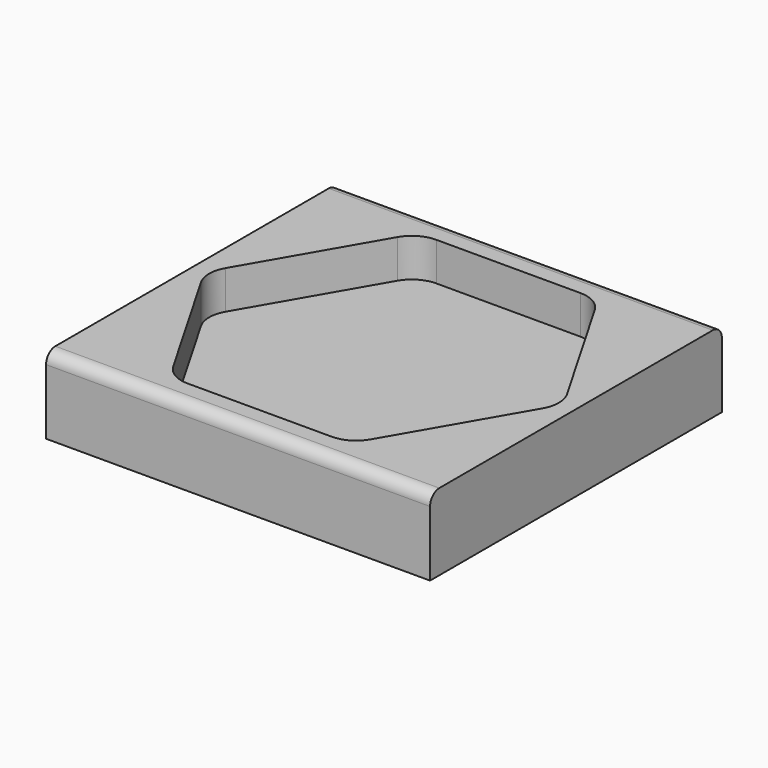
from build123d import *

# Parameters (mm, degrees)
F0_W     = 100
F0_H     = 95
F1_DEPTH = 10
F3_DEPTH = 10
F4_R     = 3


with BuildPart() as f1:
    # F0 (on Top) → F1 (new body, symmetric)
    with BuildSketch(Plane.XY):
        Rectangle(F0_W, F0_H)
    extrude(amount=F1_DEPTH, both=True)

    # F2 (on face) → F3 (cut)
    with BuildSketch(Plane.XY.offset(10)):
        with BuildLine():
            Line((18.764, 40.500201), (-18.764, 40.500201))
            ThreePointArc((-18.764, 40.500201), (-22.764, 39.428405), (-25.692203, 36.500201))
            Line((-25.692203, 36.500201), (-44.456203, 4))
            ThreePointArc((-44.456203, 4), (-45.528, 0), (-44.456203, -4))
            Line((-44.456203, -4), (-25.692203, -36.500201))
            ThreePointArc((-25.692203, -36.500201), (-22.764, -39.428405), (-18.764, -40.500201))
            Line((-18.764, -40.500201), (18.764, -40.500201))
            ThreePointArc((18.764, -40.500201), (22.764, -39.428405), (25.692203, -36.500201))
            Line((25.692203, -36.500201), (44.456203, -4))
            ThreePointArc((44.456203, -4), (45.528, 0), (44.456203, 4))
            Line((44.456203, 4), (25.692203, 36.500201))
            ThreePointArc((25.692203, 36.500201), (22.764, 39.428405), (18.764, 40.500201))
        make_face()
    extrude(amount=-F3_DEPTH, mode=Mode.SUBTRACT)

    # F4
    f4_edges = [f1.edges().sort_by_distance(p)[0] for p in [
        (0, -47.5, 10),
        (0, 47.5, 10),
    ]]
    fillet(f4_edges, radius=F4_R)


solid = f1.part
